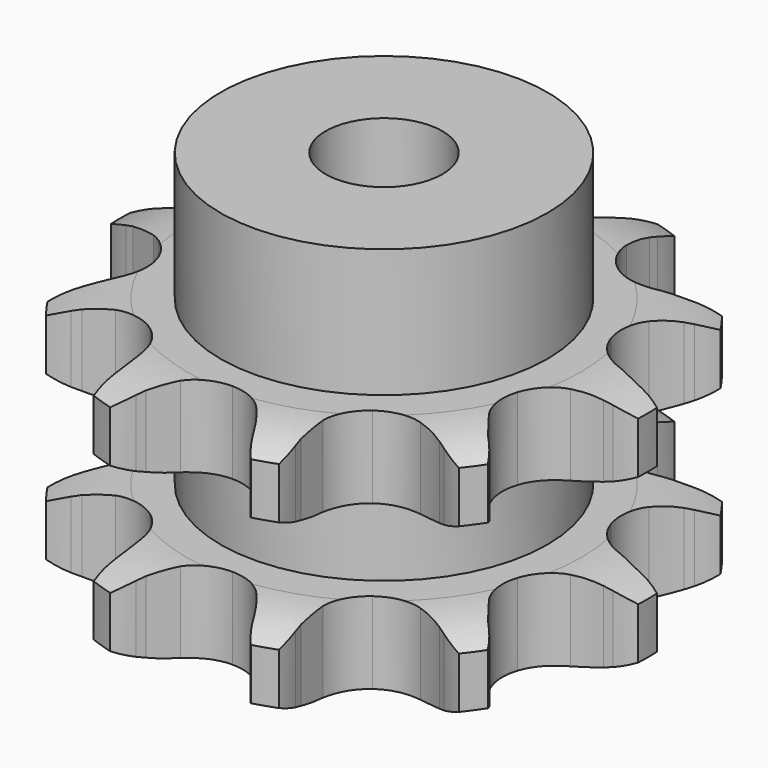
from build123d import *

# Parameters (mm, degrees)
PAD_DEPTH         = 21
SKETCH001_R       = 14
PAD001_DEPTH      = 32
SKETCH002_R       = 5
POCKET_DEPTH      = 0.001
POCKET_DEPTH_BACK = -32.001


with BuildPart() as part:
    # Sprocket → Pad (new body)
    with BuildSketch(Plane.XY):
        with BuildLine():
            ThreePointArc((-7.469505, 22.988772), (-6.053079, 21.819793), (-4.976484, 20.331936))
            Line((-4.976484, 20.331936), (-4.627193, 19.691291))
            ThreePointArc((-4.627193, 19.691291), (-3.995067, 18.667791), (-3.2561, 17.718547))
            ThreePointArc((-3.2561, 17.718547), (-1.789142, 16.623117), (0, 16.234657))
            ThreePointArc((0, 16.234657), (1.789142, 16.623117), (3.2561, 17.718547))
            ThreePointArc((3.2561, 17.718547), (3.995067, 18.667791), (4.627193, 19.691291))
            Line((4.627193, 19.691291), (4.976484, 20.331936))
            ThreePointArc((4.976484, 20.331936), (6.053079, 21.819793), (7.469505, 22.988772))
            ThreePointArc((7.469505, 22.988772), (7.928309, 21.210494), (7.924752, 19.373986))
            Line((7.924752, 19.373986), (7.830773, 18.650385))
            ThreePointArc((7.830773, 18.650385), (7.740576, 17.450802), (7.78046, 16.248493))
            ThreePointArc((7.78046, 16.248493), (8.323377, 14.500016), (9.542492, 13.134113))
            ThreePointArc((9.542492, 13.134113), (11.21827, 12.396753), (13.048941, 12.420718))
            Line((13.048941, 12.420718), (15.317728, 13.210793))
            ThreePointArc((15.317728, 13.210793), (15.644733, 13.372692), (15.976873, 13.523778))
            ThreePointArc((15.976873, 13.523778), (17.722396, 14.094673), (19.555417, 14.207842))
            ThreePointArc((19.555417, 14.207842), (18.881352, 12.499507), (17.799002, 11.015831))
            Line((17.799002, 11.015831), (17.297649, 10.485666))
            ThreePointArc((17.297649, 10.485666), (16.519581, 9.568199), (15.845149, 8.572067))
            ThreePointArc((15.845149, 8.572067), (15.256649, 6.838401), (15.440076, 5.016785))
            ThreePointArc((15.440076, 5.016785), (16.3624, 3.43525), (17.85753, 2.378597))
            Line((17.85753, 2.378597), (20.157412, 1.684221))
            ThreePointArc((20.157412, 1.684221), (20.517126, 1.622992), (20.874639, 1.549996))
            ThreePointArc((20.874639, 1.549996), (22.622361, 0.985867), (24.171825, 0))
            ThreePointArc((24.171825, 0), (22.622361, -0.985867), (20.874639, -1.549996))
            Line((20.874639, -1.549996), (20.157412, -1.684221))
            ThreePointArc((20.157412, -1.684221), (18.988668, -1.969131), (17.85753, -2.378597))
            ThreePointArc((17.85753, -2.378597), (16.3624, -3.43525), (15.440076, -5.016785))
            ThreePointArc((15.440076, -5.016785), (15.256649, -6.838401), (15.845149, -8.572067))
            Line((15.845149, -8.572067), (17.297649, -10.485666))
            ThreePointArc((17.297649, -10.485666), (17.552675, -10.746636), (17.799002, -11.015831))
            ThreePointArc((17.799002, -11.015831), (18.881352, -12.499507), (19.555417, -14.207842))
            ThreePointArc((19.555417, -14.207842), (17.722396, -14.094673), (15.976873, -13.523778))
            Line((15.976873, -13.523778), (15.317728, -13.210793))
            ThreePointArc((15.317728, -13.210793), (14.204729, -12.754319), (13.048941, -12.420718))
            ThreePointArc((13.048941, -12.420718), (11.21827, -12.396753), (9.542492, -13.134113))
            ThreePointArc((9.542492, -13.134113), (8.323377, -14.500016), (7.78046, -16.248493))
            Line((7.78046, -16.248493), (7.830773, -18.650385))
            ThreePointArc((7.830773, -18.650385), (7.883698, -19.011415), (7.924752, -19.373986))
            ThreePointArc((7.924752, -19.373986), (7.928309, -21.210494), (7.469505, -22.988772))
            ThreePointArc((7.469505, -22.988772), (6.053079, -21.819793), (4.976484, -20.331936))
            Line((4.976484, -20.331936), (4.627193, -19.691291))
            ThreePointArc((4.627193, -19.691291), (3.995067, -18.667791), (3.2561, -17.718547))
            ThreePointArc((3.2561, -17.718547), (1.789142, -16.623117), (0, -16.234657))
            ThreePointArc((0, -16.234657), (-1.789142, -16.623117), (-3.2561, -17.718547))
            Line((-3.2561, -17.718547), (-4.627193, -19.691291))
            ThreePointArc((-4.627193, -19.691291), (-4.796584, -20.014479), (-4.976484, -20.331936))
            ThreePointArc((-4.976484, -20.331936), (-6.053079, -21.819793), (-7.469505, -22.988772))
            ThreePointArc((-7.469505, -22.988772), (-7.928309, -21.210494), (-7.924752, -19.373986))
            Line((-7.924752, -19.373986), (-7.830773, -18.650385))
            ThreePointArc((-7.830773, -18.650385), (-7.740576, -17.450802), (-7.78046, -16.248493))
            ThreePointArc((-7.78046, -16.248493), (-8.323377, -14.500016), (-9.542492, -13.134113))
            ThreePointArc((-9.542492, -13.134113), (-11.21827, -12.396753), (-13.048941, -12.420718))
            Line((-13.048941, -12.420718), (-15.317728, -13.210793))
            ThreePointArc((-15.317728, -13.210793), (-15.644733, -13.372692), (-15.976873, -13.523778))
            ThreePointArc((-15.976873, -13.523778), (-17.722396, -14.094673), (-19.555417, -14.207842))
            ThreePointArc((-19.555417, -14.207842), (-18.881352, -12.499507), (-17.799002, -11.015831))
            Line((-17.799002, -11.015831), (-17.297649, -10.485666))
            ThreePointArc((-17.297649, -10.485666), (-16.519581, -9.568199), (-15.845149, -8.572067))
            ThreePointArc((-15.845149, -8.572067), (-15.256649, -6.838401), (-15.440076, -5.016785))
            ThreePointArc((-15.440076, -5.016785), (-16.3624, -3.43525), (-17.85753, -2.378597))
            Line((-17.85753, -2.378597), (-20.157412, -1.684221))
            ThreePointArc((-20.157412, -1.684221), (-20.517126, -1.622992), (-20.874639, -1.549996))
            ThreePointArc((-20.874639, -1.549996), (-22.622361, -0.985867), (-24.171825, 0))
            ThreePointArc((-24.171825, 0), (-22.622361, 0.985867), (-20.874639, 1.549996))
            Line((-20.874639, 1.549996), (-20.157412, 1.684221))
            ThreePointArc((-20.157412, 1.684221), (-18.988668, 1.969131), (-17.85753, 2.378597))
            ThreePointArc((-17.85753, 2.378597), (-16.3624, 3.43525), (-15.440076, 5.016785))
            ThreePointArc((-15.440076, 5.016785), (-15.256649, 6.838401), (-15.845149, 8.572067))
            Line((-15.845149, 8.572067), (-17.297649, 10.485666))
            ThreePointArc((-17.297649, 10.485666), (-17.552675, 10.746636), (-17.799002, 11.015831))
            ThreePointArc((-17.799002, 11.015831), (-18.881352, 12.499507), (-19.555417, 14.207842))
            ThreePointArc((-19.555417, 14.207842), (-17.722396, 14.094673), (-15.976873, 13.523778))
            Line((-15.976873, 13.523778), (-15.317728, 13.210793))
            ThreePointArc((-15.317728, 13.210793), (-14.204729, 12.754319), (-13.048941, 12.420718))
            ThreePointArc((-13.048941, 12.420718), (-11.21827, 12.396753), (-9.542492, 13.134113))
            ThreePointArc((-9.542492, 13.134113), (-8.323377, 14.500016), (-7.78046, 16.248493))
            Line((-7.78046, 16.248493), (-7.830773, 18.650385))
            ThreePointArc((-7.830773, 18.650385), (-7.883698, 19.011415), (-7.924752, 19.373986))
            ThreePointArc((-7.924752, 19.373986), (-7.928309, 21.210494), (-7.469505, 22.988772))
        make_face()
    extrude(amount=PAD_DEPTH)

    # Sketch → Groove (revolve, cut)
    with BuildSketch(Plane.XZ):
        with BuildLine():
            ThreePointArc((16.933431, 0), (19.84032, 0.329167), (22.6, 1.3))
            Line((22.6, 1.3), (22.6, 5.7))
            ThreePointArc((22.6, 5.7), (19.84032, 6.670833), (16.933431, 7))
            Line((14, 7), (16.933431, 7))
            Line((14, 14), (14, 7))
            Line((16.933431, 14), (14, 14))
            ThreePointArc((16.933431, 14), (19.84032, 14.329167), (22.6, 15.3))
            Line((22.6, 15.3), (22.6, 19.7))
            ThreePointArc((22.6, 19.7), (19.84032, 20.670833), (16.933431, 21))
            Line((16.933431, 21), (26.933431, 21))
            Line((26.933431, 21), (26.933431, 0))
            Line((16.933431, 0), (26.933431, 0))
        make_face()
    revolve(axis=Axis((0, 0, 0), (0, 0, 1)), mode=Mode.SUBTRACT)

    # Sketch001 → Pad001 (join)
    with BuildSketch(Plane.XY):
        Circle(SKETCH001_R)
    extrude(amount=PAD001_DEPTH)

    # Sketch002 → Pocket (cut, two sides)
    with BuildSketch(Plane.XY) as pocket_sk:
        Circle(SKETCH002_R)
    extrude(amount=-POCKET_DEPTH, mode=Mode.SUBTRACT)
    extrude(pocket_sk.sketch, amount=-POCKET_DEPTH_BACK, mode=Mode.SUBTRACT)


solid = part.part
